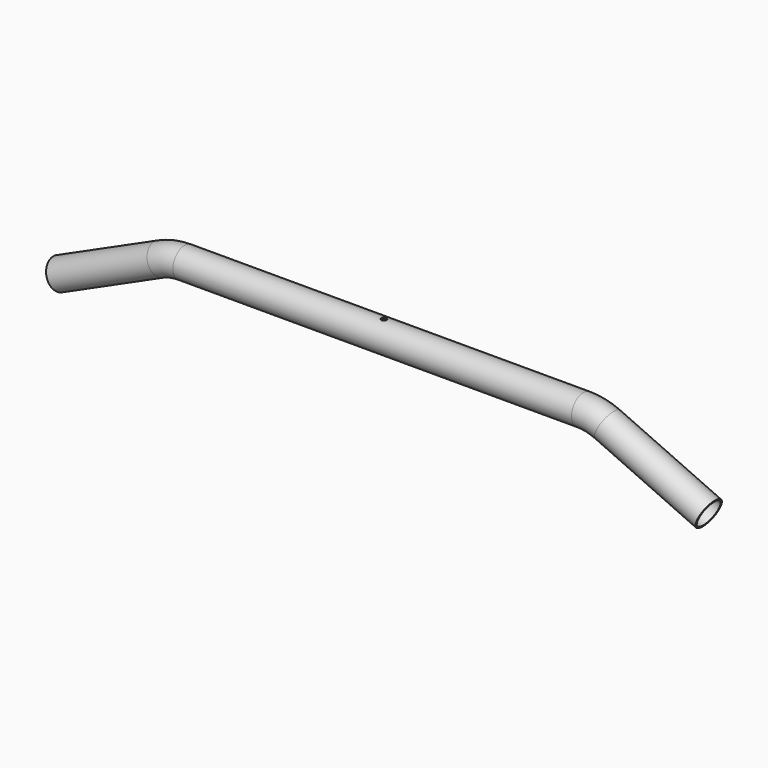
from build123d import *

# Parameters (mm, degrees)
F1_R   = 25
F1_R_2 = 22.5
F6_D   = 8.8


with BuildPart() as f2:
    # F2: sweep along a path in F0
    with BuildLine(Plane.XZ) as f2_path:
        Line((0, 24.8682312667), (-338, 24.8682312667))
        ThreePointArc((-338, 24.8682312667), (-364.3925829493, 22.0501921499), (-389.5951606003, 13.723136311))
        Line((-389.5951606003, 13.723136311), (-560.8329377868, -63.8759852319))
    # F1 (on Right) → F2 (sweep)
    with BuildSketch(Plane.YZ):
        Circle(F1_R)
        Circle(F1_R_2, mode=Mode.SUBTRACT)
    sweep(path=f2_path.line)

    # F3: F2 across plane


with BuildPart() as f2_1:
    add(f2.part)
    add(f2.part.mirror(Plane.YZ))

    # F6 (through all)
    with Locations(Plane.XY.offset(25)):
        with Locations((0, 0)):
            Hole(F6_D / 2)


solid = f2_1.part
